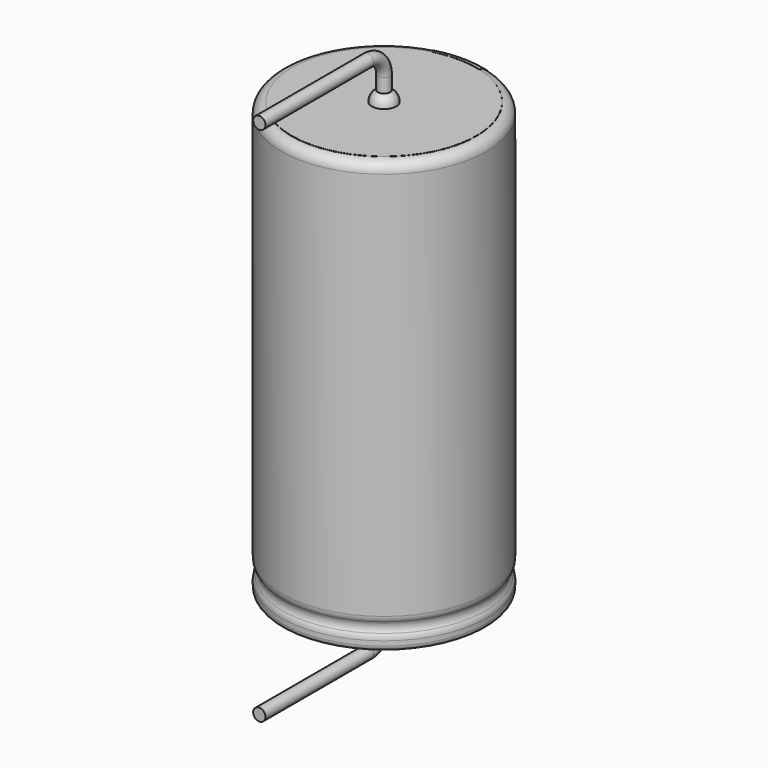
from build123d import *

# Parameters (mm, degrees)
SKETCH011_R             = 0.3
BODY007_PLACEMENT_ANGLE = 180
REVOLUTION001_ANGLE     = -30
POCKET_DEPTH            = 5.011
LINEARPATTERN_COUNT     = 5
LINEARPATTERN_PITCH     = 4
SKETCH012_R             = 4.5
PAD_DEPTH               = 0.01
BODY008_PLACEMENT_ANGLE = 90


with BuildPart() as lead:
    # AdditivePipe: sweep along a path in Sketch010
    with BuildLine(Plane(origin=(0, 0, 0), x_dir=(0, -1, 0), z_dir=(-1, 0, 0))) as additivepipe_path:
        Line((0, 21), (0, 22.2))
        ThreePointArc((0, 22.2), (0.292893, 22.907107), (1, 23.2))
        Line((1, 23.2), (7.6, 23.2))
    # Sketch011 → AdditivePipe (sweep)
    with BuildSketch(Plane.XY.offset(21)):
        Circle(SKETCH011_R)
    sweep(path=additivepipe_path.line)


with BuildPart() as obj1:
    # Body007 base: copy of Lead
    add(lead.part)


with BuildPart() as obj1_1:
    # Body007 placement: moved
    add(obj1.part.moved(Location((0, 0, 21))).rotate(Axis((0, 0, 21), (0, 1, 0)), BODY007_PLACEMENT_ANGLE))


with BuildPart() as polaritymarking:
    # Sketch005 → Revolution001 (revolve)
    with BuildSketch(Plane(origin=(0, 0, 0), x_dir=(-0.258819, 0.965926, 0), z_dir=(0.965926, 0.258819, 0))):
        with BuildLine():
            Line((4.51, 0.043526), (4.51, 21.01))
            ThreePointArc((4.51, 21.01), (4.863553, 20.863553), (5.01, 20.51))
            Line((5.01, 20.51), (5.01, 1.523941))
            ThreePointArc((5.01, 1.523941), (4.989134, 1.381006), (4.928278, 1.25))
            ThreePointArc((4.928278, 1.25), (4.853698, 1), (4.928278, 0.75))
            ThreePointArc((4.928278, 0.75), (4.989134, 0.618994), (5.01, 0.476059))
            Line((5.01, 0.476059), (5.01, 0.043526))
            ThreePointArc((5.01, 0.043526), (4.76, -0.206474), (4.51, 0.043526))
        make_face()
    revolve(axis=Axis((0, 0, 0), (0, 0, 1)), revolution_arc=REVOLUTION001_ANGLE)

    # Sketch013 → Pocket (cut, through all)
    with BuildSketch(Plane.XZ):
        Polygon((0.375, 2), (-0.375, 2), (-0.375, 3), (0, 3.5), (0.375, 3), align=None)
    pocket = extrude(amount=-POCKET_DEPTH, mode=Mode.SUBTRACT)

    # LinearPattern: Pocket ×5
    with Locations(*[(0, 0, i * LINEARPATTERN_PITCH) for i in range(1, LINEARPATTERN_COUNT)]):
        add(pocket, mode=Mode.SUBTRACT)


with BuildPart() as housing:
    # Sketch → Revolution (revolve)
    with BuildSketch(Plane.XZ):
        with BuildLine():
            Line((0, 21), (4.5, 21))
            ThreePointArc((5, 20.5), (4.853553, 20.853553), (4.5, 21))
            Line((5, 20.5), (5, 1.523941))
            ThreePointArc((4.918278, 1.25), (4.979134, 1.381006), (5, 1.523941))
            ThreePointArc((4.918278, 1.25), (4.843698, 1), (4.918278, 0.75))
            ThreePointArc((5, 0.476059), (4.979134, 0.618994), (4.918278, 0.75))
            Line((5, 0.476059), (5, 0.25))
            ThreePointArc((4.75, 0), (4.926777, 0.073223), (5, 0.25))
            Line((0, 0), (4.75, 0))
            Line((0, 21), (0, 0))
        make_face()
    revolve(axis=Axis((0, 0, 0), (0, 0, 1)))


with BuildPart() as fusion:
    # Sphere → Sphere (revolve)
    with BuildSketch(Plane.XZ):
        with BuildLine():
            ThreePointArc((0, -0.6), (0.6, 0), (0, 0.6))
            Line((0, 0.6), (0, -0.6))
        make_face()
    revolve(axis=Axis((0, 0, 0), (0, 0, 1)))

    # Sketch012 (on ShapeBinder) → Pad (new body)
    with BuildSketch(Plane(origin=(0, 0, 0), x_dir=(0, -1, 0), z_dir=(0, 0, 1))):
        Circle(SKETCH012_R)
    extrude(amount=PAD_DEPTH)


with BuildPart() as fusion_1:
    # Body008 placement: moved
    add(fusion.part.moved(Location((0, 0, 21))).rotate(Axis((0, 0, 21), (0, 0, -1)), BODY008_PLACEMENT_ANGLE))

    # Fusion: union obj1, Lead, PolarityMarking, Housing
    add(obj1_1.part)
    add(lead.part)
    add(polaritymarking.part)
    add(housing.part)


solid = fusion_1.part
